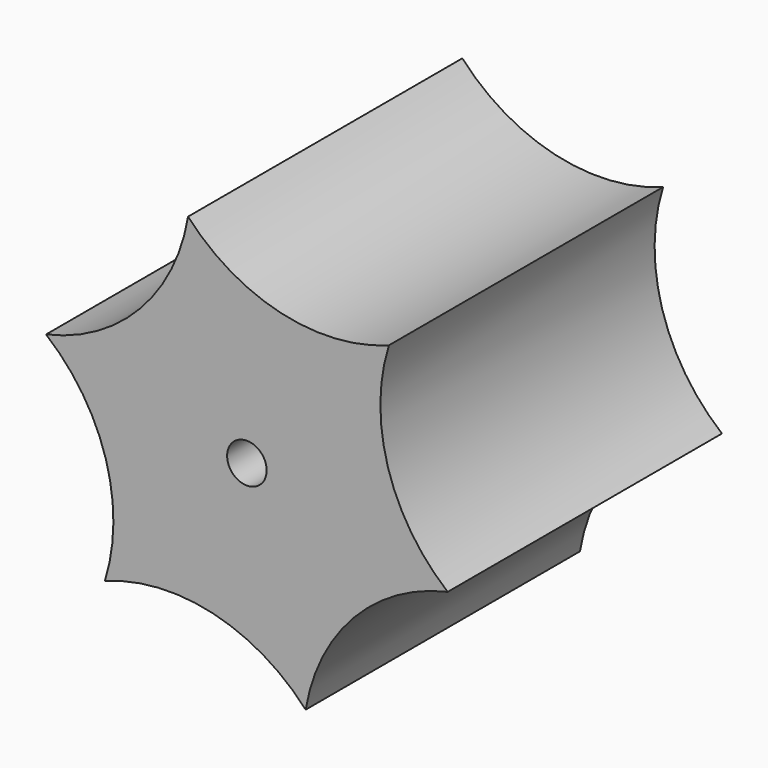
from build123d import *

# Parameters (mm, degrees)
F0_R     = 0.75
F1_DEPTH = 13


with BuildPart() as f1:
    # F0 (on Front) → F1 (new body)
    with BuildSketch(Plane.XZ):
        with BuildLine():
            ThreePointArc((-45.877073, 37.077873), (-47.700367, 33.412388), (-51.261876, 31.393517))
            ThreePointArc((-51.261876, 31.393517), (-48.99912, 27.981756), (-49.031481, 23.887964))
            ThreePointArc((-49.031481, 23.887964), (-44.945431, 24.141687), (-41.416284, 22.066766))
            ThreePointArc((-41.416284, 22.066766), (-39.592989, 25.732251), (-36.031481, 27.751121))
            ThreePointArc((-36.031481, 27.751121), (-38.294237, 31.162883), (-38.261876, 35.256675))
            ThreePointArc((-38.261876, 35.256675), (-42.347926, 35.002951), (-45.877073, 37.077873))
        make_face()
        with Locations((-43.646678, 29.572319)):
            Circle(F0_R, mode=Mode.SUBTRACT)
    extrude(amount=F1_DEPTH)


solid = f1.part
